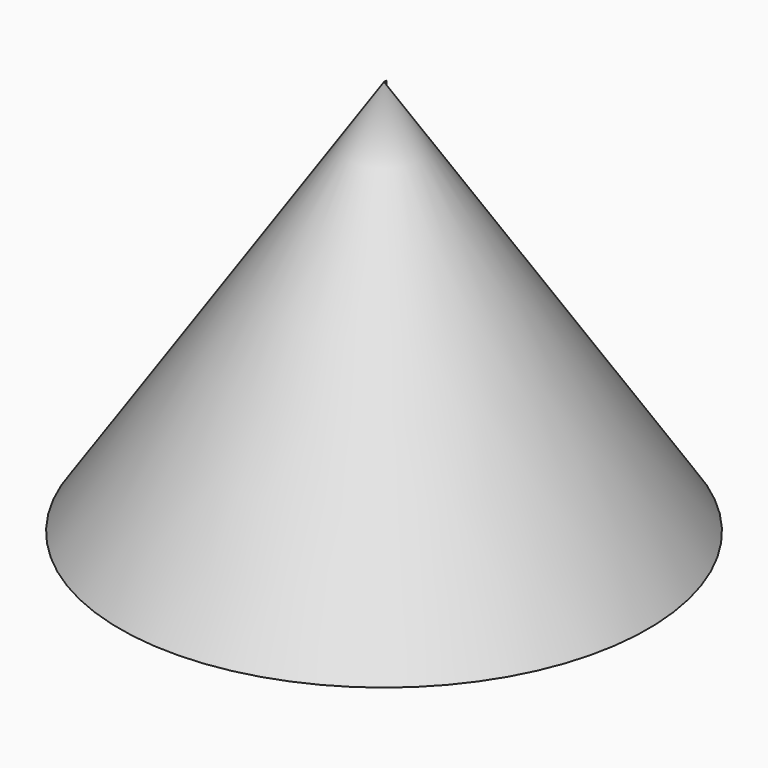
from build123d import *

# Parameters (mm, degrees)
F1_DEPTH = 25


with BuildPart() as f1:
    # F0 (on Front) → F1 (new body)
    with BuildSketch(Plane.XZ):
        Polygon((-2000, 0), (0, 0), (0, 3000), align=None)
    extrude(amount=F1_DEPTH)

    # F1_face (on face) → F2 (revolve)
    with BuildSketch(Plane(origin=(-666.666667, -25, 1000), x_dir=(1, 0, 0), z_dir=(0, -1, 0))):
        Polygon((-1333.333333, -1000), (666.666667, -1000), (666.666667, 2000), align=None)
    revolve(axis=Axis((0, -25, 1500), (0, 0, 1)))


solid = f1.part
